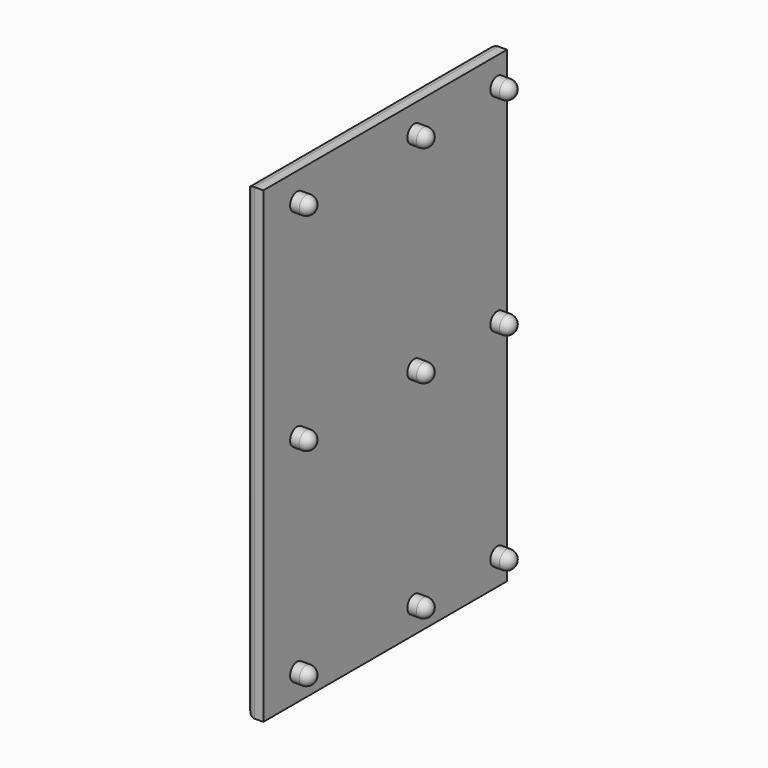
from build123d import *

# Parameters (mm, degrees)
F1_START = 11
F1_DEPTH = 69
F4_START = 21.75
F3_R     = 2
F4_DEPTH = 4.25
F5_R     = 2
F6_R     = 2


with BuildPart() as f1:
    # F0 (on Front) → F1 (new body)
    with BuildSketch(Plane.XZ.offset(F1_START)):
        Polygon((-59.0593354404, 0), (-59.0593354404, 53), (-63.0593354404, 53), (-63.0593354404, -53), (-59.0593354404, -53), align=None)
    extrude(amount=F1_DEPTH)

    # F3 (on offset) → F4 (join)
    with BuildSketch(Plane.YZ.offset(-81).offset(F4_START)):
        with Locations((-70.4067274928, -46.8843728304)):
            Circle(F3_R)
        with Locations((-70.4067274928, 0)):
            Circle(F3_R)
        with Locations((-70.4067274928, 46.8843728304)):
            Circle(F3_R)
        with Locations((-37.2223369777, 46.8843728304)):
            Circle(F3_R)
        with Locations((-37.2223369777, 0)):
            Circle(F3_R)
        with Locations((-37.2223369777, -46.8843728304)):
            Circle(F3_R)
        with Locations((-13.7270642444, 46.8843728304)):
            Circle(F3_R)
        with Locations((-13.7270642444, 0)):
            Circle(F3_R)
        with Locations((-13.7270642444, -46.8843728304)):
            Circle(F3_R)
    extrude(amount=F4_DEPTH)

    # F5
    f5_edges = [f1.edges().sort_by_distance(p)[0] for p in [
        (-55, -72.406727, 0),
        (-55, -72.406727, 46.884373),
        (-55, -72.406727, -46.884373),
        (-55, -39.222337, -46.884373),
        (-55, -39.222337, 0),
        (-55, -39.222337, 46.884373),
        (-55, -15.727064, 46.884373),
        (-55, -15.727064, 0),
        (-55, -15.727064, -46.884373),
    ]]
    fillet(f5_edges, radius=F5_R)

    # F6
    f6_edges = [f1.edges().sort_by_distance(p)[0] for p in [
        (-63.059335, -45.5, 53),
        (-63.059335, -45.5, -53),
        (-63.059335, -11, 0),
        (-63.059335, -80, 0),
    ]]
    fillet(f6_edges, radius=F6_R)


solid = f1.part
